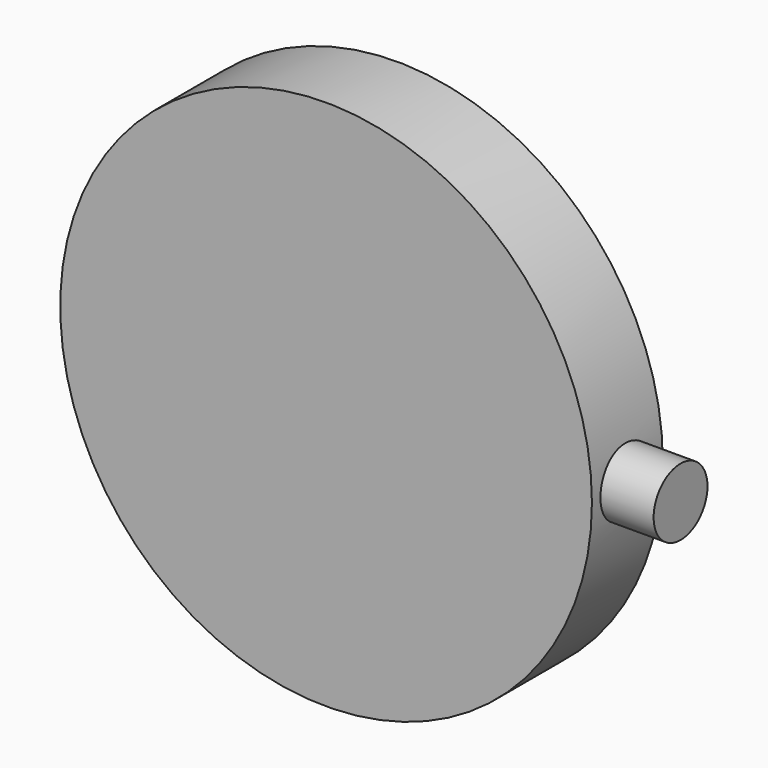
from build123d import *

# Parameters (mm, degrees)
F0_R     = 75
F1_DEPTH = 12.5
F3_R     = 9.5
F4_DEPTH = 25


with BuildPart() as f1:
    # F0 (on Front) → F1 (new body, symmetric)
    with BuildSketch(Plane.XZ):
        Circle(F0_R)
    extrude(amount=F1_DEPTH, both=True)

    # F3 (on offset) → F4 (join)
    with BuildSketch(Plane.YZ.offset(65)):
        Circle(F3_R)
    extrude(amount=F4_DEPTH)


solid = f1.part
